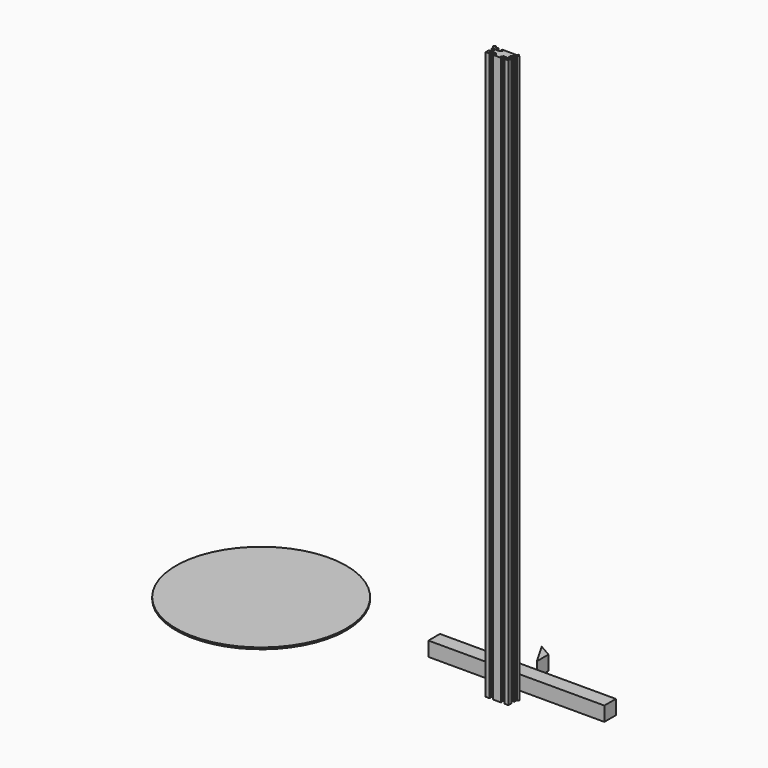
from build123d import *

# Parameters (mm, degrees)
F0_R     = 150
F1_DEPTH = 3
F3_DEPTH = 1000
F4_W     = 25.4
F4_H     = 25.4
F5_DEPTH = 155
F7_DEPTH = 25.4


with BuildPart() as f1:
    # F0 (on Top) → F1 (new body)
    with BuildSketch(Plane.XY):
        with Locations((-442.485638, 24.211056)):
            Circle(F0_R)
    extrude(amount=F1_DEPTH)


with BuildPart() as f3:
    # F2 (on Top) → F3 (new body)
    with BuildSketch(Plane.XY):
        Polygon((-19.207074, 9.652025), (-19.207074, 12.027027), (-20.007047, 12.027027), (-22.382061, 9.652013), (-20.007072, 7.277024), (-19.207074, 7.277024), (-19.207074, 2.652014), (-17.207078, 2.652014), (-17.207078, 5.652008), (-16.267735, 5.652008), (-13.20706, 2.591359), (-13.20706, -3.287319), (-16.267735, -6.347993), (-17.207078, -6.347993), (-17.207078, -3.347974), (-19.207074, -3.347974), (-19.207074, -10.347985), (-12.207062, -10.347985), (-12.207062, -8.347989), (-15.207056, -8.347989), (-15.207056, -7.408647), (-12.146407, -4.347972), (-6.267729, -4.347972), (-3.207055, -7.408647), (-3.207055, -8.347989), (-6.207074, -8.347989), (-6.207074, -10.347985), (7.792923, -10.347985), (7.792923, -8.347989), (4.792929, -8.347989), (4.792929, -7.408647), (7.853604, -4.347972), (13.732281, -4.347972), (16.792931, -7.408647), (16.792931, -8.347989), (13.792937, -8.347989), (13.792937, -10.347985), (20.792923, -10.347985), (20.792923, -3.347974), (18.792927, -3.347974), (18.792927, -6.347993), (17.853584, -6.347993), (14.792935, -3.287319), (14.792935, 2.591359), (17.853584, 5.652008), (18.792927, 5.652008), (18.792927, 2.652014), (20.792923, 2.652014), (20.792923, 7.277024), (21.592946, 7.277024), (23.967935, 9.652013), (21.592921, 12.027027), (20.792923, 12.027027), (20.792923, 9.652025), (-6.207074, 9.652025), (-6.207074, 7.652029), (-3.207055, 7.652029), (-3.207055, 6.712687), (-6.267729, 3.652012), (-12.146407, 3.652012), (-15.207056, 6.712687), (-15.207056, 7.652029), (-12.207062, 7.652029), (-12.207062, 9.652025), align=None)
    extrude(amount=F3_DEPTH)


with BuildPart() as f5:
    # F4 (on Right) → F5 (new body, symmetric)
    with BuildSketch(Plane.YZ):
        with Locations((45.914182, 12.7)):
            Rectangle(F4_W, F4_H)
    extrude(amount=F5_DEPTH, both=True)


with BuildPart() as f7:
    # F6 (on Top) → F7 (new body)
    with BuildSketch(Plane.XY):
        Polygon((-21.997045, 116.604632), (0, 78.504632), (0, 103.904632), align=None)
    extrude(amount=F7_DEPTH)


solid = Compound([f1.part, f3.part, f5.part, f7.part])
